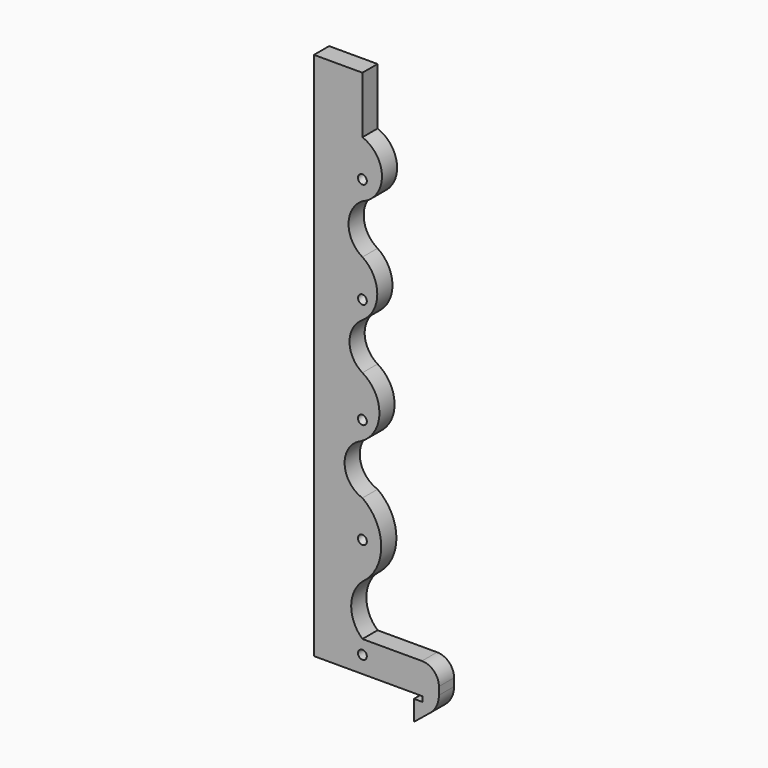
from build123d import *

# Parameters (mm, degrees)
F0_R      = 1.3
F9_DEPTH  = 5.59188
F3_R      = 1.3
F7_R      = 1.3
F8_R      = 1.3
F4_R      = 1.3
F10_DEPTH = 12.5
F11_R     = 5
F12_R     = 7


with BuildPart() as f9:
    # F0 (on Front) → F9 (new body)
    with BuildSketch(Plane.XZ):
        with BuildLine():
            Line((0, 105.927363), (-14.3, 105.927363))
            Line((-14.3, 105.927363), (-14.3, -50.272637))
            Line((-14.3, -50.272637), (17.7, -50.272637))
            Line((17.7, -50.272637), (17.7, -51.772637))
            Line((17.7, -51.772637), (15.2, -51.772637))
            Line((15.2, -51.772637), (15.2, -57.772637))
            Line((15.2, -57.772637), (22.56546, -51.772637))
            Line((22.56546, -51.772637), (22.56546, -41.172637))
            Line((22.56546, -41.172637), (0, -41.172637))
            ThreePointArc((0, -41.172637), (-3.317792, -33.70843), (0, -26.244223))
            ThreePointArc((0, -26.244223), (5.555396, -15.397738), (0, -4.551252))
            ThreePointArc((0, -4.551252), (-5.254266, 2.605622), (-0.450577, 10.072397))
            ThreePointArc((-0.450577, 10.072397), (5.010963, 18.897612), (0, 27.986236))
            ThreePointArc((0, 27.986236), (-3.804451, 34.821723), (0, 41.657209))
            ThreePointArc((0, 41.657209), (4.388049, 49.850428), (0, 58.043648))
            ThreePointArc((0, 58.043648), (-4.094802, 65.3005), (0, 72.557352))
            ThreePointArc((0, 72.557352), (5.764102, 80.860864), (0, 89.164376))
            Line((0, 89.164376), (0, 105.927363))
        make_face()
        with Locations((0, -45.272637)):
            Circle(F0_R, mode=Mode.SUBTRACT)
    extrude(amount=F9_DEPTH)

    # F3 (on face) + F7 (on face) + F8 (on face) + F4 (on face) → F10 (cut, symmetric)
    with BuildSketch(Plane(origin=(0, -3.143985, -0.741469), x_dir=(-1, 0, 0), z_dir=(0, 0.973299, 0.22954))):
        with Locations((0, -13.714992)):
            Circle(F3_R)
    with BuildSketch(Plane(origin=(0, 10.796876, 2.546305), x_dir=(-1, 0, 0), z_dir=(0, 0.973299, 0.22954))):
        with Locations((0, 47.036983)):
            Circle(F7_R)
    with BuildSketch(Plane(origin=(0, 17.767307, 4.190192), x_dir=(-1, 0, 0), z_dir=(0, 0.973299, 0.22954))):
        with Locations((0, 77.403918)):
            Circle(F8_R)
    with BuildSketch(Plane(origin=(0, 3.826445, 0.902418), x_dir=(-1, 0, 0), z_dir=(0, 0.973299, 0.22954))):
        with Locations((0, 16.608408)):
            Circle(F4_R)
    extrude(amount=F10_DEPTH, both=True, mode=Mode.SUBTRACT)

    # F11
    f11_edges = [f9.edges().sort_by_distance(p)[0] for p in [
        (22.56546, -2.79594, -41.172637),
    ]]
    fillet(f11_edges, radius=F11_R)

    # F12
    f12_edges = [f9.edges().sort_by_distance(p)[0] for p in [
        (22.56546, -2.79594, -51.772637),
    ]]
    fillet(f12_edges, radius=F12_R)


solid = f9.part
